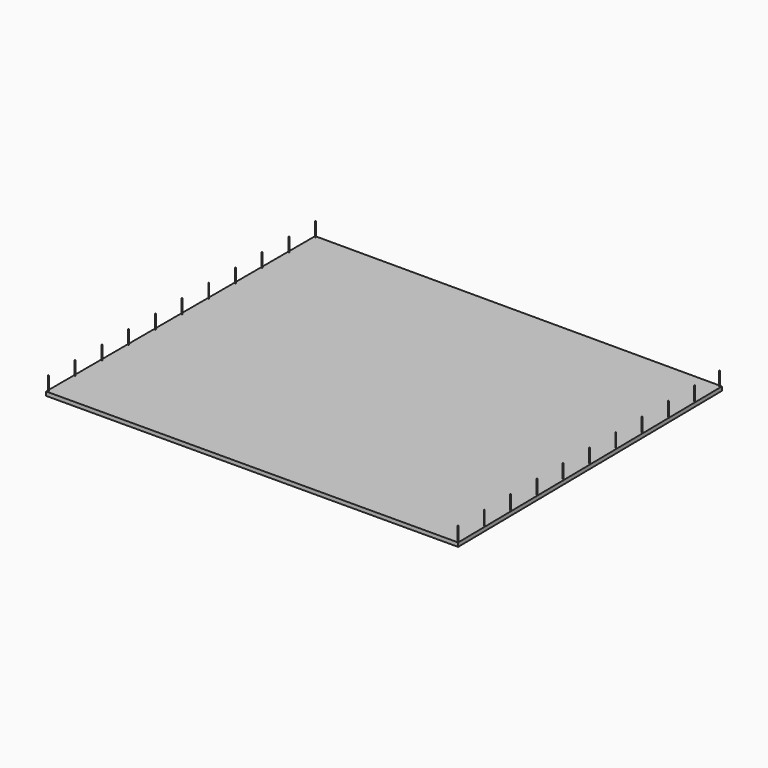
from build123d import *

# Parameters (mm, degrees)
EXTRUDE_DEPTH    = 300
SKETCH001_W      = 40
SKETCH001_H      = 40
EXTRUDE001_DEPTH = 1070


with BuildPart() as extrude_body:
    # Sketch → Extrude (new body)
    with BuildSketch(Plane.XY):
        Polygon((0, 0), (0, 25680), (31060, 25680), (31370, 120), align=None)
    extrude(amount=EXTRUDE_DEPTH)


with BuildPart() as extrude001:
    # Sketch001 → Extrude001 (new body)
    with BuildSketch(Plane(origin=(15595.505376, 12848.724342, 300), x_dir=(1, 0, 0), z_dir=(0, 0, 1))):
        with Locations((-15495.505376, -12748.724342)):
            Rectangle(SKETCH001_W, SKETCH001_H)
        with Locations((15674.494624, -12628.724342)):
            Rectangle(SKETCH001_W, SKETCH001_H)
        with Locations((15364.494624, 12731.275658)):
            Rectangle(SKETCH001_W, SKETCH001_H)
        with Locations((-15495.505376, 12731.275658)):
            Rectangle(SKETCH001_W, SKETCH001_H)
        with Locations((-15495.505376, -10198.724342)):
            Rectangle(SKETCH001_W, SKETCH001_H)
        with Locations((-15495.505376, -7648.724342)):
            Rectangle(SKETCH001_W, SKETCH001_H)
        with Locations((-15495.505376, -5098.724342)):
            Rectangle(SKETCH001_W, SKETCH001_H)
        with Locations((-15495.505376, -2548.724342)):
            Rectangle(SKETCH001_W, SKETCH001_H)
        with Locations((-15495.505376, 1.275658)):
            Rectangle(SKETCH001_W, SKETCH001_H)
        with Locations((-15495.505376, 2551.275658)):
            Rectangle(SKETCH001_W, SKETCH001_H)
        with Locations((-15495.505376, 5101.275658)):
            Rectangle(SKETCH001_W, SKETCH001_H)
        with Locations((-15495.505376, 7651.275658)):
            Rectangle(SKETCH001_W, SKETCH001_H)
        with Locations((-15495.505376, 10201.275658)):
            Rectangle(SKETCH001_W, SKETCH001_H)
        with Locations((15643.323489, -10078.724342)):
            Rectangle(SKETCH001_W, SKETCH001_H)
        with Locations((15612.152353, -7528.724342)):
            Rectangle(SKETCH001_W, SKETCH001_H)
        with Locations((15580.981217, -4978.724342)):
            Rectangle(SKETCH001_W, SKETCH001_H)
        with Locations((15549.810082, -2428.724342)):
            Rectangle(SKETCH001_W, SKETCH001_H)
        with Locations((15518.641312, 121.082127)):
            Rectangle(SKETCH001_W, SKETCH001_H)
        with Locations((15487.470176, 2671.082127)):
            Rectangle(SKETCH001_W, SKETCH001_H)
        with Locations((15456.29904, 5221.082127)):
            Rectangle(SKETCH001_W, SKETCH001_H)
        with Locations((15425.127905, 7771.082127)):
            Rectangle(SKETCH001_W, SKETCH001_H)
        with Locations((15393.956769, 10321.082127)):
            Rectangle(SKETCH001_W, SKETCH001_H)
    extrude(amount=EXTRUDE001_DEPTH)


solid = Compound([extrude_body.part, extrude001.part])
